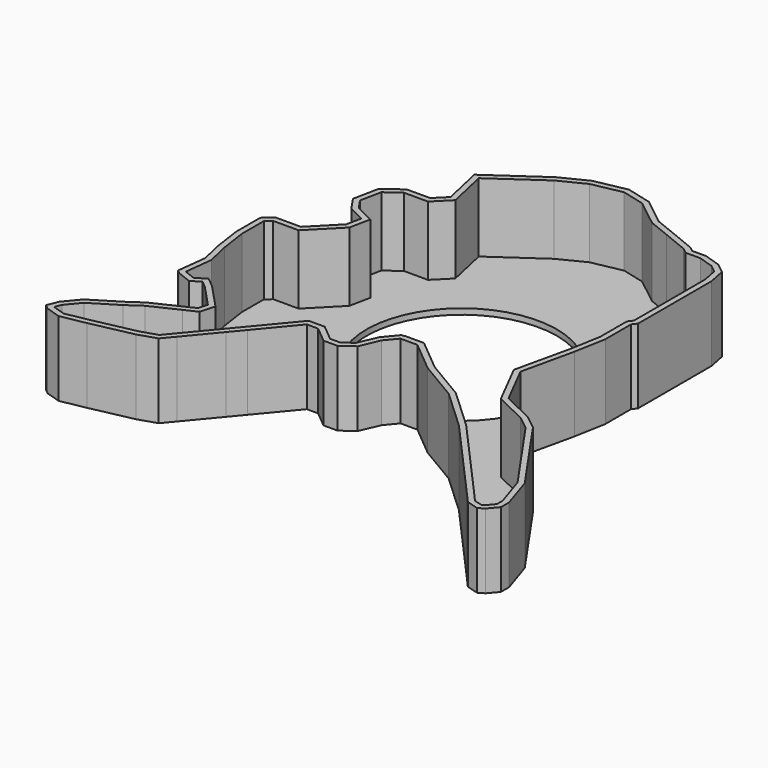
from build123d import *

# Parameters (mm, degrees)
F1_DEPTH = 10
F2_T     = -0.762
F3_R     = 12.7550536122
F4_DEPTH = 25.4


with BuildPart() as f1:
    # F0 (on Top) → F1 (new body)
    with BuildSketch(Plane.XY):
        Polygon((-7.8007113189, 25.4050213844), (-14.7581025958, 20.5559302121), (-13.5356634855, 15.0533653796), (-15.0557206944, 13.5333081707), (-18.1923042983, 13.5333081707), (-20.5559276198, 11.8295696557), (-21.2681274861, 8.3783324808), (-20.012428984, 6.527827587), (-17.7791882306, 5.4171900265), (-18.1923042983, 3.4152779263), (-21.5501468629, 0), (-24.9349009246, 0), (-26.1455569416, -1.0574074695), (-26.1455569416, -5.1203737967), (-25.6145708263, -8.7974648923), (-24.9349009246, -11.7783686146), (-25.3995768726, -15.7559095406), (-24.9349009246, -16.142109525), (-23.0465140194, -16.8757408121), (-21.7977536025, -16.142109525), (-20.9150481969, -16.8757408121), (-18.1111115962, -19.8680274189), (-18.4382367879, -21.0997294635), (-19.7853650898, -21.7411002789), (-23.4853252769, -23.4957698894), (-25.3995768726, -24.8154569417), (-29.0218316621, -27.0394197407), (-30.6820981205, -29.0370528883), (-31.2679782274, -30.5143610979), (-30.6820981205, -31.0012958944), (-28.7057235837, -31.6250957549), (-25.3995768726, -31.0012958944), (-19.7853650898, -29.8160724342), (-17.3616977744, -29.0370528883), (-16.1116474631, -27.5329919434), (-12.7562444109, -23.4957698894), (-11.2979090287, -21.7411002789), (-7.2542270645, -16.8757408121), (-5.7355757302, -16.8757408121), (-3.5900974181, -18.6588838696), (-1.705969451, -18.6588838696), (0, -17.422426492), (1.1230455963, -14.8166298422), (2.4098805152, -13.2683096454), (4.6730381437, -13.2683096454), (8.788285777, -16.688561067), (14.146274887, -19.8680274189), (19.4753222167, -24.8154569417), (29.3999388814, -35.9310284257), (31.0319885612, -37.7653092146), (32.639272511, -38.2234193385), (33.4090031683, -37.7653092146), (34.4607569277, -36.5162938833), (34.4607569277, -35.1515486836), (33.0238379538, -30.7261310518), (28.2081253827, -23.798527196), (25.8020885247, -20.3280491786), (23.8092746586, -18.7650527805), (19.688764587, -16.7849324644), (16.8812572956, -11.2681994215), (18.4691958129, -4.2106937617), (19.228663871, 0), (19.228663871, 4.3211282282), (19.688764587, 4.9077547155), (19.688764587, 10.1767061278), (19.688764587, 14.4955459982), (19.688764587, 17.2170065343), (19.228663871, 19.5308034597), (17.8511645645, 20.611198619), (15.6399458647, 21.313789199), (13.8063501083, 21.313789199), (13.1918145344, 21.7957794666), (9.7170434892, 23.2172757387), (6.9530224428, 24.3228841573), (3.3282164725, 27.1658785641), (0, 28.019279857), (-4.2789963759, 27.1658785641), align=None)
    extrude(amount=F1_DEPTH)

    # F2
    f2_openings = [f1.faces().sort_by_distance(p)[0] for p in [
        (-0.450246, -1.925405, 10),
    ]]
    offset(amount=F2_T, openings=f2_openings, kind=Kind.INTERSECTION)

    # F3 (on face) → F4 (cut)
    with BuildSketch(Plane(origin=(0, 0, 0), x_dir=(1, 0, 0), z_dir=(0, 0, -1))):
        Circle(F3_R)
    extrude(amount=-F4_DEPTH, mode=Mode.SUBTRACT)


solid = f1.part
